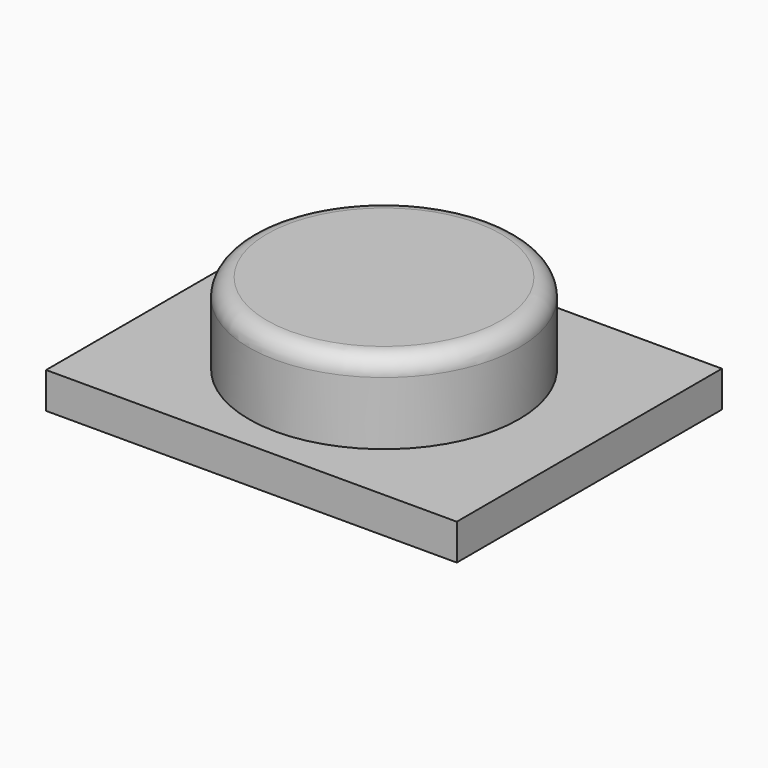
from build123d import *

# Parameters (mm, degrees)
SKETCH050_R  = 0.75
PAD031_DEPTH = 0.45
SKETCH051_W  = 2.28
SKETCH051_H  = 1.84
PAD032_DEPTH = 0.2
FILLET007_R  = 0.1


with BuildPart() as part:
    # Sketch050 (on DatumPlane) → Pad031 (new body)
    with BuildSketch(Plane.XY.offset(1.5)):
        Circle(SKETCH050_R)
    extrude(amount=-PAD031_DEPTH)

    # Sketch051 (on Face3 of Pad031) → Pad032 (join)
    with BuildSketch(Plane(origin=(0, 0, 1.05), x_dir=(1, 0, 0), z_dir=(0, 0, -1))):
        Rectangle(SKETCH051_W, SKETCH051_H)
    extrude(amount=PAD032_DEPTH)

    # Fillet007
    fillet007_edges = [part.edges().sort_by_distance(p)[0] for p in [
        (-0.75, 0, 1.5),
    ]]
    fillet(fillet007_edges, radius=FILLET007_R)


solid = part.part
